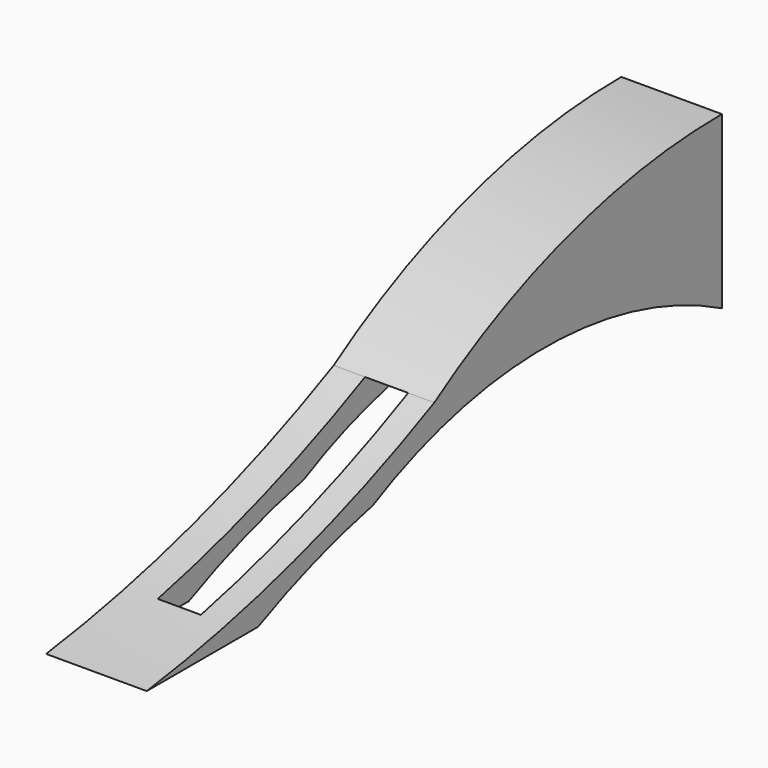
from build123d import *

# Parameters (mm, degrees)
F0_W     = 250
F0_H     = 75
F1_DEPTH = 17.5
F3_DEPTH = 35.001
F4_R     = 9.5
F5_DEPTH = 50
F6_W     = 15
F6_H     = 150
F7_DEPTH = 37.501


with BuildPart() as f1:
    # F0 (on Right) → F1 (new body, symmetric)
    with BuildSketch(Plane.YZ):
        Rectangle(F0_W, F0_H)
    extrude(amount=F1_DEPTH, both=True)

    # F2 (on face) → F3 (cut, through all)
    with BuildSketch(Plane(origin=(-17.5, 0, 0), x_dir=(0, -1, 0), z_dir=(-1, 0, 0))):
        with BuildLine():
            ThreePointArc((-125, 37.5), (-59.748084, 27.923052), (0, 0))
            ThreePointArc((0, 0), (61.011045, -23.713184), (125, -37.5))
            Line((125, -37.5), (125, 37.5))
            Line((125, 37.5), (-125, 37.5))
        make_face()
        with BuildLine():
            Line((-125, -37.5), (76.611606, -37.5))
            ThreePointArc((76.611606, -37.5), (52.114015, -27.662953), (26.677744, -20.59927))
            ThreePointArc((26.677744, -20.59927), (-50.552427, -16.563242), (-125, -37.5))
        make_face()
        with BuildLine():
            ThreePointArc((26.677744, -20.59927), (-49.327107, -2.636934), (-125, -21.950044))
            Line((-125, -21.950044), (-125, -37.5))
            ThreePointArc((-125, -37.5), (-50.552427, -16.563242), (26.677744, -20.59927))
        make_face()
    extrude(amount=-F3_DEPTH, mode=Mode.SUBTRACT)

    # F4 (on face) → F5 (cut)
    with BuildSketch(Plane(origin=(0, 125, 0), x_dir=(-1, 0, 0), z_dir=(0, 1, 0))):
        with Locations((0, 17.31561)):
            Circle(F4_R)
    extrude(amount=-F5_DEPTH, mode=Mode.SUBTRACT)

    # F6 (on Top) → F7 (cut, through all)
    with BuildSketch(Plane.XY):
        with Locations((0.914634, -15.109161)):
            Rectangle(F6_W, F6_H)
    extrude(amount=-F7_DEPTH, mode=Mode.SUBTRACT)


solid = f1.part
